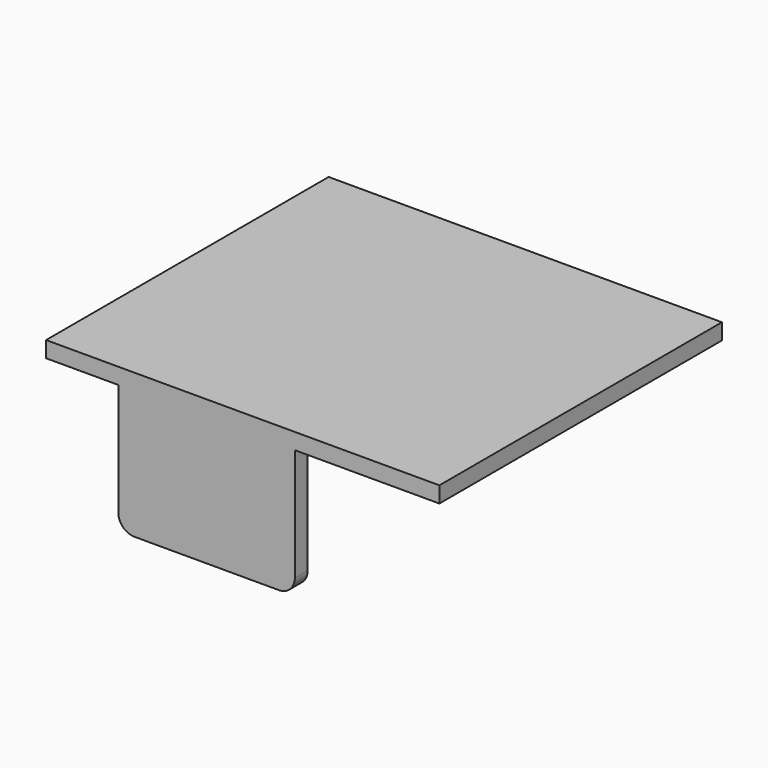
from build123d import *

# Parameters (mm, degrees)
F0_W     = 44.6
F0_H     = 39.6
F1_DEPTH = 2
F0_W_2   = 22
F0_H_2   = 2
F2_DEPTH = 18
F0_W_3   = 2
F0_H_3   = 20
F3_DEPTH = 23
F4_DEPTH = 3
F5_R     = 1.5
F6_R     = 2


with BuildPart() as f1:
    # F0 (on Top) → F1 (new body)
    with BuildSketch(Plane.XY):
        Polygon((31, 0), (49, 0), (49, 44), (27, 44), (27, 42), (5, 42), (5, 44), (0, 44), (0, 41.8), (0, 41), (2, 41), (2, 21), (0, 21), (0, 0), (9, 0), (9, 2), (31, 2), align=None)
        with Locations((24.5, 22)):
            Rectangle(F0_W, F0_H, mode=Mode.SUBTRACT)
    extrude(amount=-F1_DEPTH)

    # F0 (on Top) → F2 (join)
    with BuildSketch(Plane.XY):
        with Locations((16, 43)):
            Rectangle(F0_W_2, F0_H_2)
        with Locations((20, 1)):
            Rectangle(F0_W_2, F0_H_2)
    extrude(amount=-F2_DEPTH)

    # F0 (on Top) → F3 (join)
    with BuildSketch(Plane.XY):
        with Locations((1, 31)):
            Rectangle(F0_W_3, F0_H_3)
    extrude(amount=-F3_DEPTH)

    # F0 (on Top) → F4 (join)
    with BuildSketch(Plane.XY):
        with Locations((24.5, 22)):
            Rectangle(F0_W, F0_H)
    extrude(amount=-F4_DEPTH)

    # F5
    f5_edges = [f1.edges().sort_by_distance(p)[0] for p in [
        (2.2, 2.2, -2.5),
        (2.2, 41.8, -2.5),
        (46.8, 2.2, -2.5),
        (46.8, 41.8, -2.5),
    ]]
    fillet(f5_edges, radius=F5_R)

    # F6
    f6_edges = [f1.edges().sort_by_distance(p)[0] for p in [
        (5, 43, -18),
        (27, 43, -18),
        (1, 41, -23),
        (1, 21, -23),
        (31, 1, -18),
        (9, 1, -18),
    ]]
    fillet(f6_edges, radius=F6_R)


solid = f1.part
